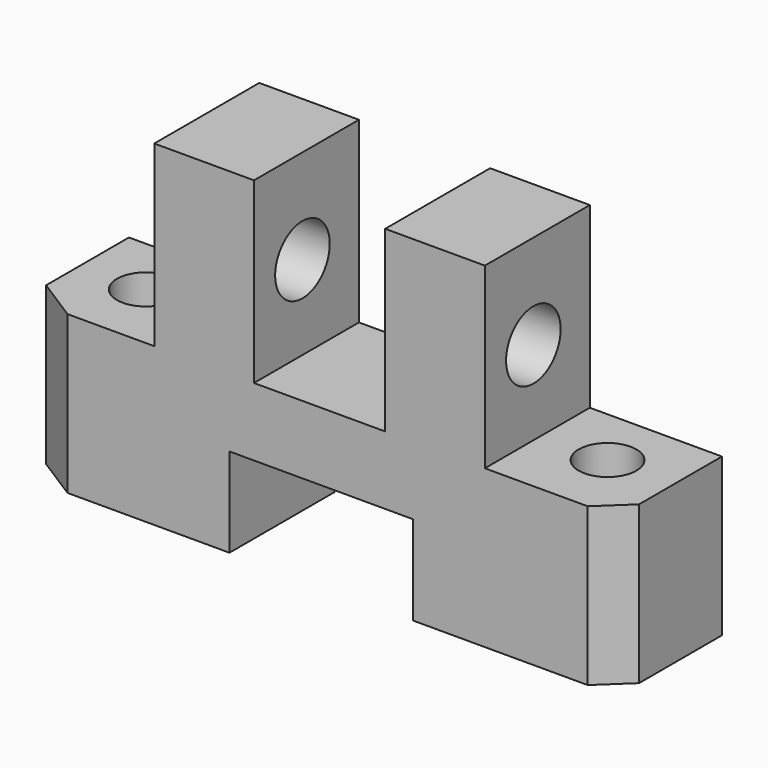
from build123d import *

# Parameters (mm, degrees)
F1_DEPTH = 25
F3_R     = 6.5
F4_DEPTH = 87.828853
F5_DEPTH = 30.001
F2_R     = 5.5
F6_DEPTH = 30.001


with BuildPart() as f1:
    # F0 (on Front) → F1 (new body)
    with BuildSketch(Plane.XZ):
        Polygon((0, 30), (0, 0), (39.15558, 0), (39.15558, 17), (74.15558, 17), (74.15558, 0), (113, 0), (113, 30), (87.827853, 30), (87.827853, 64), (68.827853, 64), (68.827853, 30), (43.827853, 30), (43.827853, 64), (24.827853, 64), (24.827853, 30), align=None)
    extrude(amount=F1_DEPTH)

    # F3 (on face) → F4 (cut, through all)
    with BuildSketch(Plane.YZ.offset(87.827853)):
        with Locations((-13.453124, 46)):
            Circle(F3_R)
    extrude(amount=-F4_DEPTH, mode=Mode.SUBTRACT)

    # F2 (on face) → F5 (cut, through all)
    with BuildSketch(Plane.XY.offset(30)):
        Polygon((0, -25), (8.3075, -25), (0, -19.74), align=None)
        Polygon((113, -19.74), (107.418746, -25), (113, -25), align=None)
    extrude(amount=-F5_DEPTH, mode=Mode.SUBTRACT)

    # F2 (on face) → F6 (cut, through all)
    with BuildSketch(Plane.XY.offset(30)):
        Polygon((113, -19.74), (107.418746, -25), (113, -25), align=None)
        Polygon((0, -25), (8.3075, -25), (0, -19.74), align=None)
        with Locations((12.419996, -11.515)):
            Circle(F2_R)
        with Locations((100.413927, -11.515)):
            Circle(F2_R)
    extrude(amount=-F6_DEPTH, mode=Mode.SUBTRACT)


solid = f1.part
